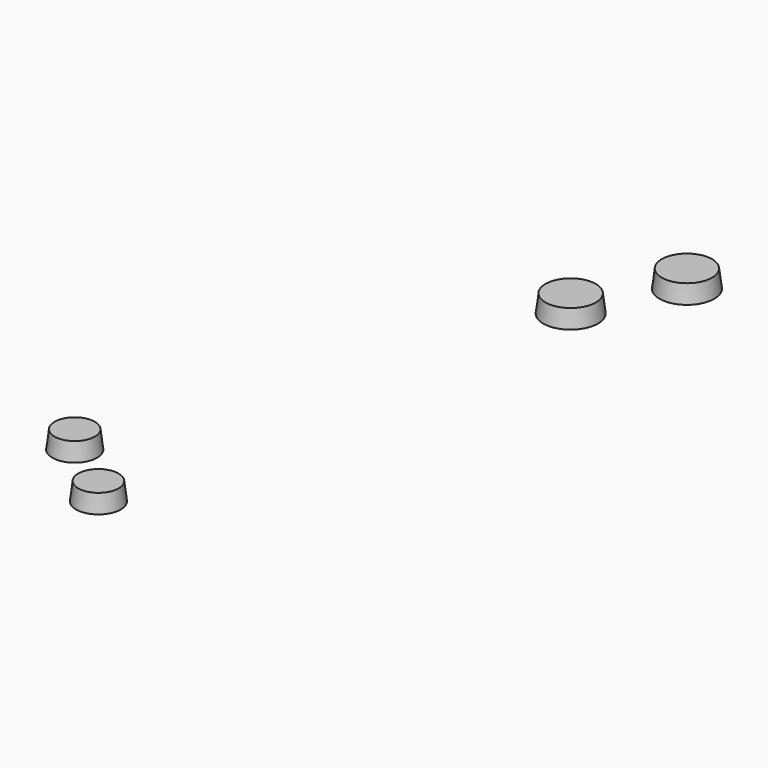
from build123d import *

# Parameters (mm, degrees)
F3_R     = 5
F4_DEPTH = 4
F4_TAPER = 7


with BuildPart() as f1:
    # F0 (on Front) → F1 (revolve)
    with BuildSketch(Plane.XZ):
        Polygon((0, 3), (0, -1), (6.125, -1), (5.625, 3), align=None)
    revolve(axis=Axis((0, 0, 1), (0, 0, -1)))


with BuildPart() as f4:
    # F3 (on Top) → F4 (new body)
    with BuildSketch(Plane.XY):
        with Locations((-34.2955209392, -95.778587448)):
            Circle(F3_R)
    extrude(amount=F4_DEPTH, taper=F4_TAPER)


with BuildPart() as f4b:
    # F3 (on Top) → F4, piece 2 (new body)
    with BuildSketch(Plane.XY):
        with Locations((-18.8409965096, -108.4733767197)):
            Circle(F3_R)
    extrude(amount=F4_DEPTH, taper=F4_TAPER)


with BuildPart() as f5_1:
    # F5: copy of F1
    add(f1.part.moved(Location((10, 20, 0))))


solid = Compound([f1.part, f4.part, f4b.part, f5_1.part])
